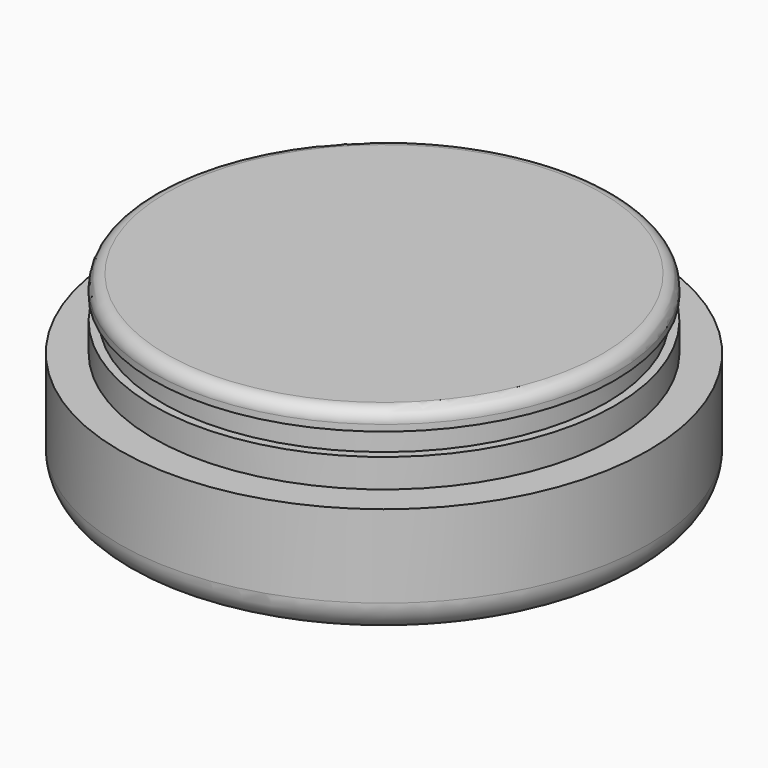
from build123d import *

# Parameters (mm, degrees)
F2_R = 5
F3_R = 2


with BuildPart() as f1:
    # F0 (on Front) → F1 (revolve)
    with BuildSketch(Plane.XZ):
        Polygon((-36.25, 22.5), (-36.25, 18), (-41.5, 18), (-41.5, 0), (0, 0), (0, 18), (0, 29), (-36.25, 29), (-36.25, 26), (-34.95, 26), (-34.95, 22.5), align=None)
    revolve(axis=Axis((0, 0, 9), (0, 0, -1)))

    # F2
    f2_edges = [f1.edges().sort_by_distance(p)[0] for p in [
        (41.5, 0, 0),
    ]]
    fillet(f2_edges, radius=F2_R)

    # F3
    f3_edges = [f1.edges().sort_by_distance(p)[0] for p in [
        (36.25, 0, 29),
    ]]
    fillet(f3_edges, radius=F3_R)


solid = f1.part
